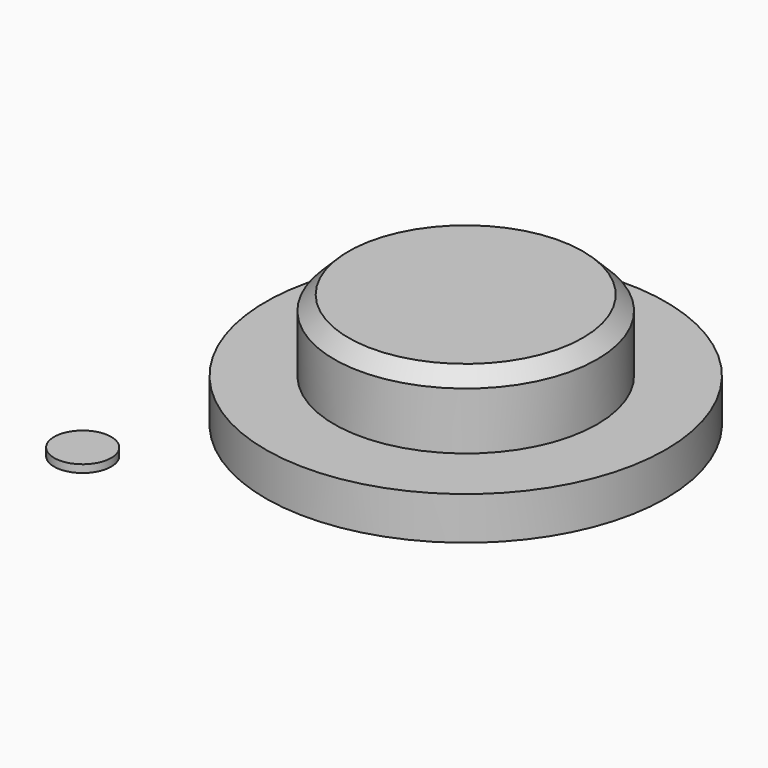
from build123d import *

# Parameters (mm, degrees)
SKETCH_R     = 7
PAD_DEPTH    = 1.5
SKETCH001_R  = 4.6
PAD001_DEPTH = 2.5
CHAMFER_SIZE = 0.5
SKETCH002_R  = 1
PAD002_DEPTH = 0.27


with BuildPart() as chamfer_body:
    # Sketch → Pad (new body)
    with BuildSketch(Plane.XY):
        Circle(SKETCH_R)
    extrude(amount=PAD_DEPTH)

    # Sketch001 → Pad001 (new body)
    with BuildSketch(Plane.XY.offset(1.5)):
        Circle(SKETCH001_R)
    extrude(amount=PAD001_DEPTH)

    # Chamfer
    chamfer_edges = [chamfer_body.edges().sort_by_distance(p)[0] for p in [
        (-4.6, 0, 4),
    ]]
    chamfer(chamfer_edges, length=CHAMFER_SIZE)


with BuildPart() as pad002:
    # Sketch002 → Pad002 (new body)
    with BuildSketch(Plane.XY):
        with Locations((-7, -8)):
            Circle(SKETCH002_R)
    extrude(amount=PAD002_DEPTH)


solid = Compound([chamfer_body.part, pad002.part])
